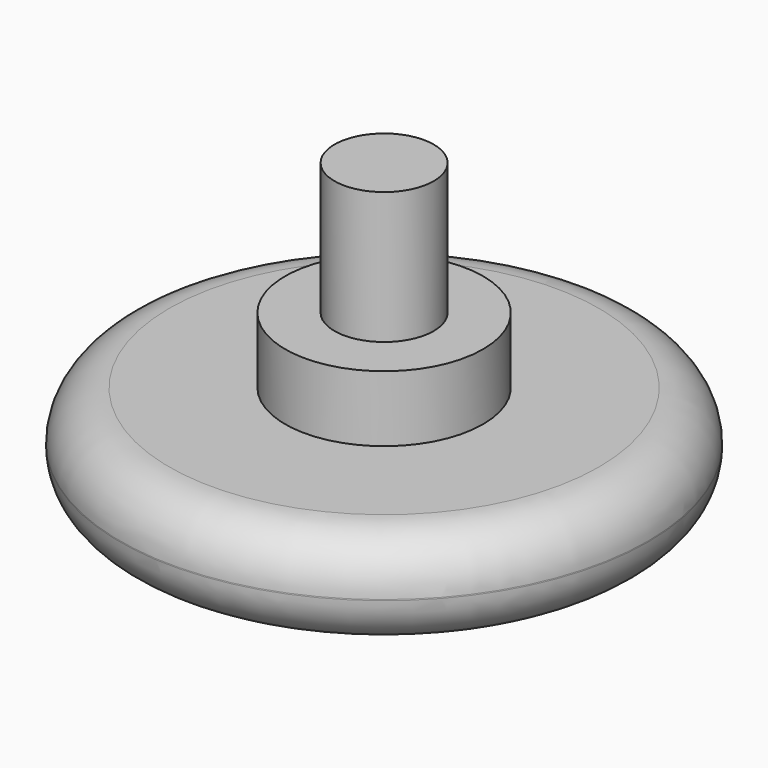
from build123d import *

# Parameters (mm, degrees)
F0_W     = 12.7
F0_H     = 4.7752
F2_R     = 2.3622
F3_R     = 4.7625
F4_DEPTH = 3.175
F5_R     = 2.3876
F6_DEPTH = 9.525


with BuildPart() as f1:
    # F0 (on Front) → F1 (revolve)
    with BuildSketch(Plane.XZ):
        with Locations((15.7442009076, 3.3685917145)):
            Rectangle(F0_W, F0_H)
    revolve(axis=Axis((9.3942009076, 0, 3.3685917145), (0, 0, -1)))

    # F2
    f2_edges = [f1.edges().sort_by_distance(p)[0] for p in [
        (-3.305799, 0, 5.756192),
        (-3.305799, 0, 0.980992),
    ]]
    fillet(f2_edges, radius=F2_R)

    # F3 (on face) → F4 (join)
    with BuildSketch(Plane.XY.offset(5.7561917145)):
        with Locations((9.3942009076, 0)):
            Circle(F3_R)
    extrude(amount=F4_DEPTH)

    # F5 (on face) → F6 (join)
    with BuildSketch(Plane.XY.offset(5.7561917145)):
        with Locations((9.3942009076, 0)):
            Circle(F5_R)
    extrude(amount=F6_DEPTH)


solid = f1.part
